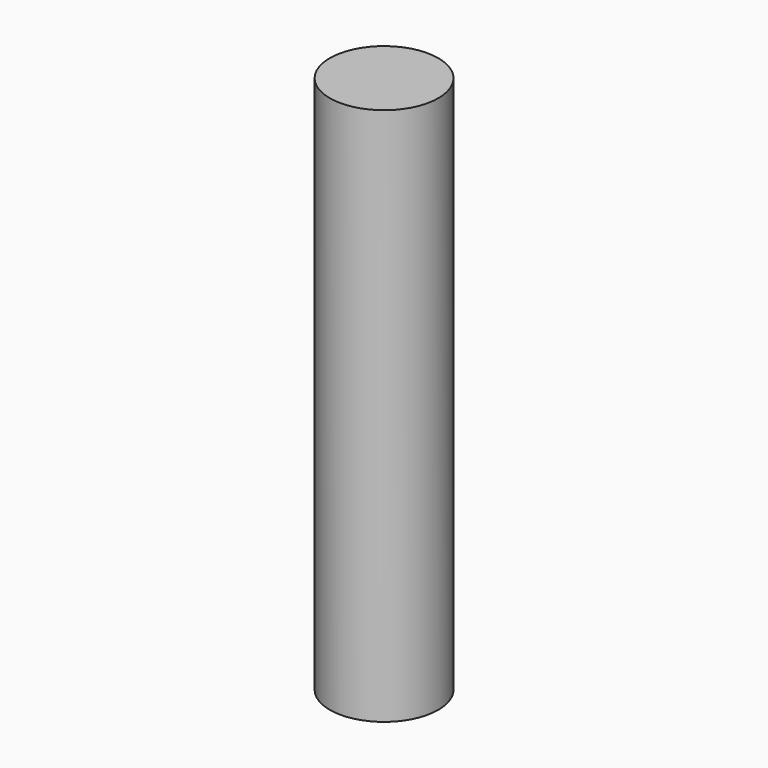
from build123d import *

# Parameters (mm, degrees)
CYLINDER_R     = 1.5113
CYLINDER_DEPTH = 15


with BuildPart() as part:
    # Cylinder → Cylinder (new body)
    with BuildSketch(Plane.XY.offset(-2.5)):
        Circle(CYLINDER_R)
    extrude(amount=CYLINDER_DEPTH)


solid = part.part
